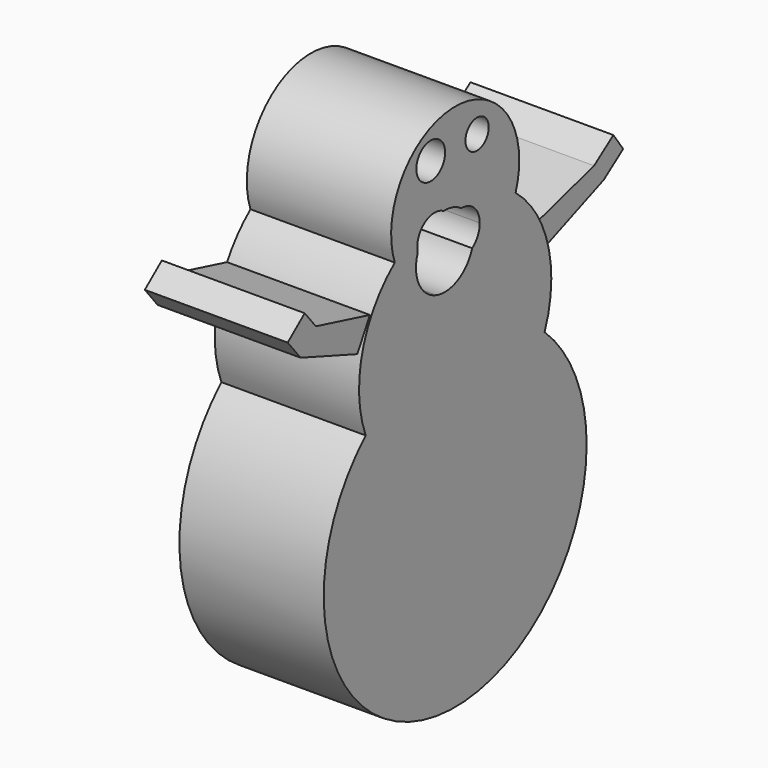
from build123d import *

# Parameters (mm, degrees)
F0_R     = 3.1665111132
F0_R_2   = 2.5646825243
F1_DEPTH = 25.4
F3_DEPTH = 25.146


with BuildPart() as f1:
    # F0 (on Right) → F1 (new body)
    with BuildSketch(Plane.YZ):
        with BuildLine():
            ThreePointArc((-19.6850845287, 21.1840917395), (-11.55441562, -26.5096921033), (28.9183038184, 0))
            ThreePointArc((28.9183038184, 0), (26.5096921033, 11.55441562), (19.6850845287, 21.1840917395))
            ThreePointArc((19.6850845287, 21.1840917395), (0, 7.7683489867), (-19.6850845287, 21.1840917395))
        make_face()
        with BuildLine():
            ThreePointArc((-19.6850845287, 21.1840917395), (0, 7.7683489867), (19.6850845287, 21.1840917395))
            ThreePointArc((19.6850845287, 21.1840917395), (0, 28.9183038184), (-19.6850845287, 21.1840917395))
        make_face()
        with BuildLine():
            ThreePointArc((-19.6850845287, 21.1840917395), (0, 28.9183038184), (19.6850845287, 21.1840917395))
            ThreePointArc((19.6850845287, 21.1840917395), (20.7805105571, 24.9824468124), (21.1499548317, 28.9183038184))
            ThreePointArc((21.1499548317, 28.9183038184), (19.0833508493, 38.0367636525), (13.2874028397, 45.3732579405))
            ThreePointArc((13.2874028397, 45.3732579405), (6.3308246952, 37.477835124), (-4.1556101771, 36.6024125963))
            ThreePointArc((-4.1556101771, 36.6024125963), (-9.7619981453, 39.9045241938), (-13.2874028397, 45.3732579405))
            ThreePointArc((-13.2874028397, 45.3732579405), (-20.4468865892, 34.3262071269), (-19.6850845287, 21.1840917395))
        make_face()
        with BuildLine():
            ThreePointArc((14.0924840212, 50.0682586501), (-2.3817633894, 63.9580141932), (-13.2874028397, 45.3732579405))
            ThreePointArc((-13.2874028397, 45.3732579405), (-9.9853875554, 47.5626762871), (-6.3329765805, 49.0978478424))
            ThreePointArc((-6.3329765805, 49.0978478424), (-5.5226495282, 49.4194252235), (-4.6604388469, 49.5484007435))
            ThreePointArc((-4.6604388469, 49.5484007435), (4.7920852757, 49.5182190632), (13.2874028397, 45.3732579405))
            ThreePointArc((13.2874028397, 45.3732579405), (13.889755543, 47.6864952607), (14.0924840212, 50.0682586501))
        make_face()
        with Locations((-5.3812013939, 57.9187460244)):
            Circle(F0_R, mode=Mode.SUBTRACT)
        with Locations((4.8147588968, 57.9187460244)):
            Circle(F0_R_2, mode=Mode.SUBTRACT)
        with BuildLine():
            ThreePointArc((-6.3329765805, 49.0978478424), (-9.9853875554, 47.5626762871), (-13.2874028397, 45.3732579405))
            ThreePointArc((-13.2874028397, 45.3732579405), (-9.7619981453, 39.9045241938), (-4.1556101771, 36.6024125963))
            ThreePointArc((-4.1556101771, 36.6024125963), (-7.9697800087, 39.8501525792), (-8.2370526856, 44.852579172))
            ThreePointArc((-8.2370526856, 44.852579172), (-8.0082045434, 47.2995766359), (-6.3329765805, 49.0978478424))
        make_face()
        with BuildLine():
            ThreePointArc((-4.1556101771, 36.6024125963), (6.3308246952, 37.477835124), (13.2874028397, 45.3732579405))
            ThreePointArc((13.2874028397, 45.3732579405), (4.7920852757, 49.5182190632), (-4.6604388469, 49.5484007435))
            ThreePointArc((-4.6604388469, 49.5484007435), (-3.5679454643, 49.4267281433), (-2.5556485234, 48.9982413685))
            ThreePointArc((-2.5556485234, 48.9982413685), (-0.4944580183, 48.7458190411), (1.3746923888, 47.8411090956))
            ThreePointArc((1.3746923888, 47.8411090956), (4.2191915964, 46.7169107007), (5.4050211589, 43.8975480029))
            ThreePointArc((5.4050211589, 43.8975480029), (4.9633834642, 42.0839792606), (3.7373645853, 40.6765158881))
            ThreePointArc((3.7373645853, 40.6765158881), (0.6232563011, 37.0268524022), (-4.1556101771, 36.6024125963))
        make_face()
    extrude(amount=F1_DEPTH)

    # F2 (on face) → F3 (join)
    with BuildSketch(Plane(origin=(0, 0, 0), x_dir=(0, -1, 0), z_dir=(-1, 0, 0))):
        Polygon((-20.4468865892, 34.3262071269), (-18.6759710207, 38.8444660082), (-30.8711156249, 42.3415750265), (-35.119432956, 45.3732579405), (-37.2829015894, 42.3415750265), (-32.9825940223, 39.2727908562), align=None)
        Polygon((30.3368594841, 42.3415750265), (18.4419409924, 39.2727908562), (21.2192699692, 34.3262071269), (33.703327179, 38.8444660082), (36.5355424583, 42.3415750265), (32.7921385807, 45.3732579405), align=None)
    extrude(amount=-F3_DEPTH)


solid = f1.part
